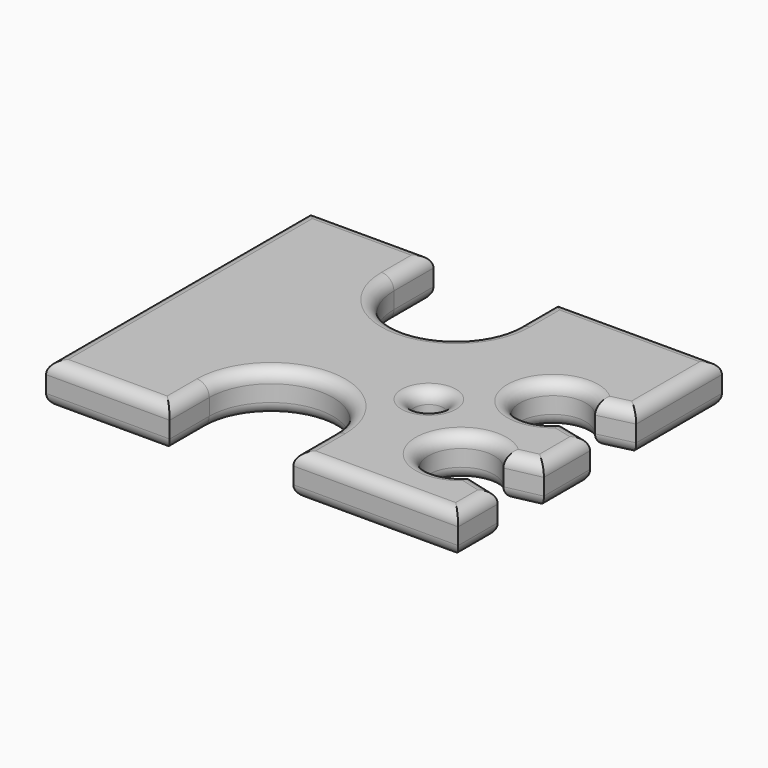
from build123d import *

# Parameters (mm, degrees)
F0_R     = 1.8
F1_DEPTH = 2.5
F2_R     = 1.5
F3_R     = 1.5


with BuildPart() as f1:
    # F0 (on Top) → F1 (new body, symmetric)
    with BuildSketch(Plane.XY):
        with BuildLine():
            Line((-46.604937, 13.994491), (-61.604937, 13.994491))
            Line((-61.604937, 13.994491), (-61.604937, -26.005509))
            Line((-61.604937, -26.005509), (-46.604937, -26.005509))
            Line((-46.604937, -26.005509), (-46.604937, -20.005509))
            ThreePointArc((-46.604937, -20.005509), (-39.104937, -12.505509), (-31.604937, -20.005509))
            Line((-31.604937, -20.005509), (-31.604937, -26.005509))
            Line((-31.604937, -26.005509), (-11.604937, -26.005509))
            Line((-11.604937, -26.005509), (-11.604937, -20.005509))
            Line((-11.604937, -20.005509), (-15.802468, -18.894399))
            ThreePointArc((-15.802468, -18.894399), (-22.924967, -16.394399), (-15.802468, -13.894399))
            Line((-15.802468, -13.894399), (-11.604937, -13.005509))
            Line((-11.604937, -13.005509), (-11.604937, -6.005509))
            Line((-11.604937, -6.005509), (-15.802468, -5))
            ThreePointArc((-15.802468, -5), (-22.924967, -2.5), (-15.802468, 0))
            Line((-15.802468, 0), (-11.604937, 0.994491))
            Line((-11.604937, 0.994491), (-11.604937, 13.994491))
            Line((-11.604937, 13.994491), (-31.604937, 13.994491))
            Line((-31.604937, 13.994491), (-31.604937, 7.994491))
            ThreePointArc((-31.604937, 7.994491), (-39.104937, 0.494491), (-46.604937, 7.994491))
            Line((-46.604937, 7.994491), (-46.604937, 13.994491))
        make_face()
        with Locations((-28.329007, -9.544921)):
            Circle(F0_R, mode=Mode.SUBTRACT)
    extrude(amount=F1_DEPTH, both=True)

    # F2
    f2_edges = [f1.edges().sort_by_distance(p)[0] for p in [
        (-61.604937, -6.005509, 2.5),
        (-54.104937, 13.994491, 2.5),
        (-39.104937, 0.494491, 2.5),
        (-21.604937, 13.994491, 2.5),
        (-11.604937, 7.494491, 2.5),
        (-13.703703, 0.497245, 2.5),
        (-22.924967, -2.5, 2.5),
        (-13.703703, -5.502755, 2.5),
        (-11.604937, -9.505509, 2.5),
        (-13.703703, -13.449954, 2.5),
        (-22.924967, -16.394399, 2.5),
        (-13.703703, -19.449954, 2.5),
        (-46.604937, 10.994491, 2.5),
        (-54.104937, -26.005509, 2.5),
        (-46.604937, -23.005509, 2.5),
        (-39.104937, -12.505509, 2.5),
        (-31.604937, -23.005509, 2.5),
        (-21.604937, -26.005509, 2.5),
        (-11.604937, -23.005509, 2.5),
        (-31.604937, 10.994491, 2.5),
        (-30.129007, -9.544921, 2.5),
    ]]
    fillet(f2_edges, radius=F2_R)

    # F3
    f3_edges = [f1.edges().sort_by_distance(p)[0] for p in [
        (-39.104937, 0.494491, -2.5),
        (-46.604937, 10.994491, -2.5),
        (-54.104937, 13.994491, -2.5),
        (-61.604937, -6.005509, -2.5),
        (-54.104937, -26.005509, -2.5),
        (-46.604937, -23.005509, -2.5),
        (-39.104937, -12.505509, -2.5),
        (-31.604937, -23.005509, -2.5),
        (-21.604937, -26.005509, -2.5),
        (-11.604937, -23.005509, -2.5),
        (-13.703703, -19.449954, -2.5),
        (-22.924967, -16.394399, -2.5),
        (-13.703703, -13.449954, -2.5),
        (-11.604937, -9.505509, -2.5),
        (-13.703703, -5.502755, -2.5),
        (-22.924967, -2.5, -2.5),
        (-13.703703, 0.497245, -2.5),
        (-11.604937, 7.494491, -2.5),
        (-21.604937, 13.994491, -2.5),
        (-31.604937, 10.994491, -2.5),
        (-30.129007, -9.544921, -2.5),
    ]]
    fillet(f3_edges, radius=F3_R)


solid = f1.part
